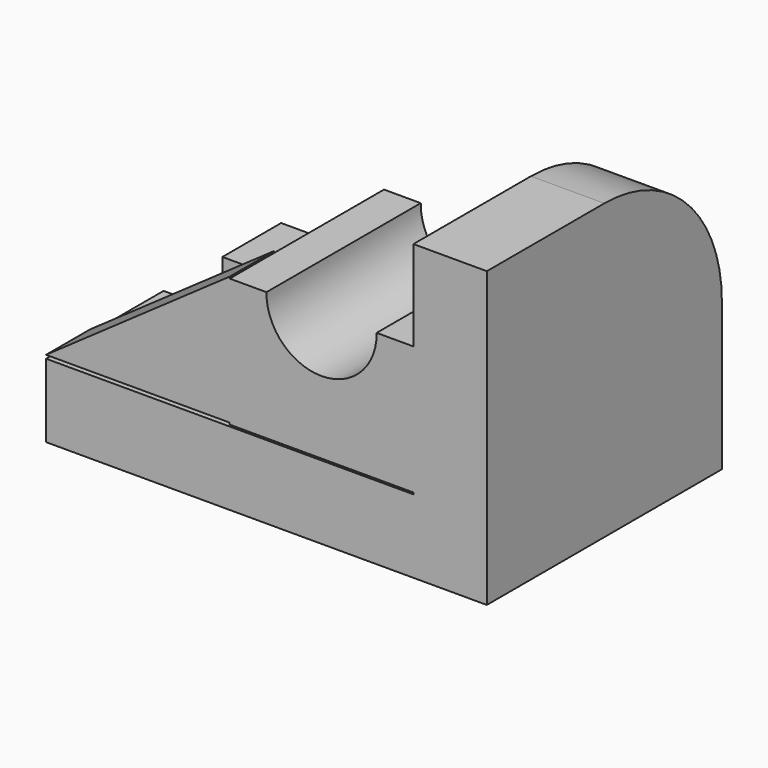
from build123d import *

# Parameters (mm, degrees)
F0_W      = 80
F0_H      = 64
F1_DEPTH  = 16
F2_W      = 64
F2_H      = 64
F3_DEPTH  = 16
F4_R      = 32
F5_W      = 40
F5_H      = 28
F6_DEPTH  = 42
F8_DEPTH  = 42
F10_DEPTH = 12
F11_W     = 20
F11_H     = 16
F12_DEPTH = 16


with BuildPart() as f1:
    # F0 (on Top) → F1 (new body)
    with BuildSketch(Plane.XY):
        with Locations((-40, 32)):
            Rectangle(F0_W, F0_H)
    extrude(amount=F1_DEPTH)

    # F2 (on Right) → F3 (join)
    with BuildSketch(Plane.YZ):
        with Locations((32, 32)):
            Rectangle(F2_W, F2_H)
    extrude(amount=F3_DEPTH)

    # F4
    f4_edges = [f1.edges().sort_by_distance(p)[0] for p in [
        (8, 64, 64),
    ]]
    fillet(f4_edges, radius=F4_R)

    # F5 (on Front) → F6 (join)
    with BuildSketch(Plane.XZ):
        with Locations((-20, 30.368277)):
            Rectangle(F5_W, F5_H)
    extrude(amount=-F6_DEPTH)

    # F7 (on face) → F8 (cut)
    with BuildSketch(Plane(origin=(0, 42, 0), x_dir=(-1, 0, 0), z_dir=(0, 1, 0))):
        with BuildLine():
            Line((32, 44.368277), (8.002928, 44.368277))
            ThreePointArc((8.002928, 44.368277), (20.001464, 32.180844), (32, 44.368277))
        make_face()
    extrude(amount=-F8_DEPTH, mode=Mode.SUBTRACT)

    # F9 (on Front) → F10 (join)
    with BuildSketch(Plane.XZ):
        Polygon((-40, 16.752034), (-40, 44.752034), (-80, 16.752034), align=None)
    extrude(amount=-F10_DEPTH)

    # F11 (on face) → F12 (cut)
    with BuildSketch(Plane.XY.offset(16)):
        with Locations((-70, 40)):
            Rectangle(F11_W, F11_H)
        with BuildLine():
            Line((-60, 48), (-60, 32))
            ThreePointArc((-60, 32), (-52, 40), (-60, 48))
        make_face()
    extrude(amount=-F12_DEPTH, mode=Mode.SUBTRACT)


solid = f1.part
